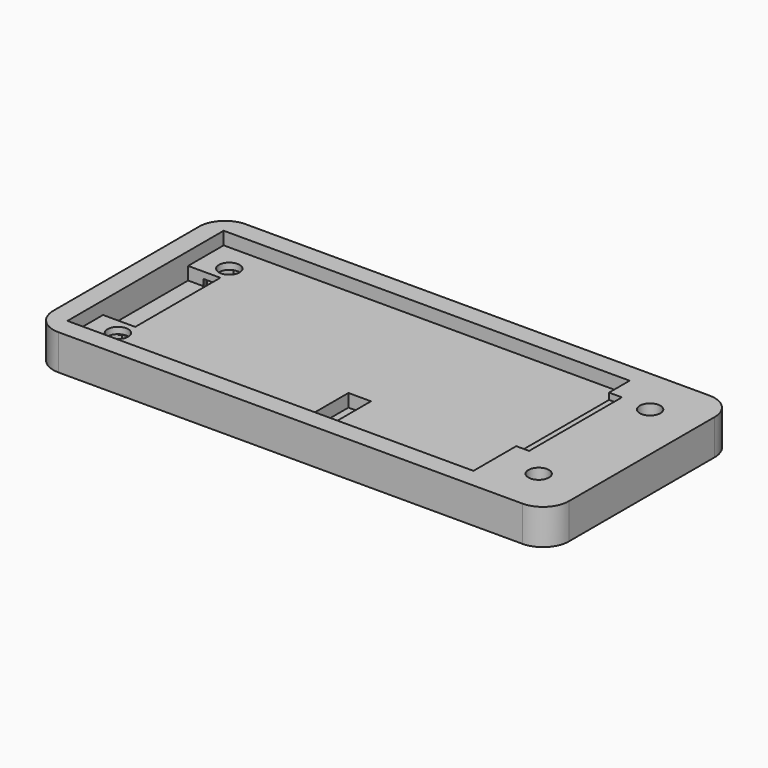
from build123d import *

# Parameters (mm, degrees)
F0_W      = 80
F0_H      = 36.3
F1_DEPTH  = 5.5
F2_R      = 4
F3_W      = 63
F3_H      = 30.3
F4_DEPTH  = 2
F5_W      = 5
F5_H      = 16.5
F5_W_2    = 3.5
F5_H_2    = 6.5
F6_DEPTH  = 4
F7_W      = 2
F7_H      = 18
F8_DEPTH  = 1
F9_R      = 1.6
F10_DEPTH = 5.501
F12_DEPTH = 2.5


with BuildPart() as f1:
    # F0 (on Top) → F1 (new body)
    with BuildSketch(Plane.XY):
        with Locations((37, 15.15)):
            Rectangle(F0_W, F0_H)
    extrude(amount=F1_DEPTH)

    # F2
    f2_edges = [f1.edges().sort_by_distance(p)[0] for p in [
        (-3, -3, 2.75),
        (77, -3, 2.75),
        (77, 33.3, 2.75),
        (-3, 33.3, 2.75),
    ]]
    fillet(f2_edges, radius=F2_R)

    # F3 (on face) → F4 (cut)
    with BuildSketch(Plane.XY.offset(5.5)):
        with Locations((31.5, 15.15)):
            Rectangle(F3_W, F3_H)
    extrude(amount=-F4_DEPTH, mode=Mode.SUBTRACT)

    # F5 (on face) → F6 (cut)
    with BuildSketch(Plane.XY.offset(5.5)):
        with Locations((2.5, 15.15)):
            Rectangle(F5_W, F5_H)
        with Locations((37.75, 6.25)):
            Rectangle(F5_W_2, F5_H_2)
    extrude(amount=-F6_DEPTH, mode=Mode.SUBTRACT)

    # F7 (on face) → F8 (cut)
    with BuildSketch(Plane.XY.offset(5.5)):
        with Locations((64, 17.3)):
            Rectangle(F7_W, F7_H)
    extrude(amount=-F8_DEPTH, mode=Mode.SUBTRACT)

    # F9 (on face) → F10 (cut, through all)
    with BuildSketch(Plane.XY.offset(5.5)):
        with Locations((4.35, 4.35)):
            Circle(F9_R)
        with Locations((4.35, 25.95)):
            Circle(F9_R)
        with Locations((69.65, 25.95)):
            Circle(F9_R)
        with Locations((69.65, 4.35)):
            Circle(F9_R)
    extrude(amount=-F10_DEPTH, mode=Mode.SUBTRACT)

    # F11 (on face) → F12 (cut)
    with BuildSketch(Plane(origin=(0, 0, 0), x_dir=(1, 0, 0), z_dir=(0, 0, -1))):
        Polygon((67.917949, -28.95), (71.382051, -28.95), (73.114102, -25.95), (71.382051, -22.95), (67.917949, -22.95), (66.185898, -25.95), align=None)
        Polygon((73.114102, -4.35), (71.382051, -1.35), (67.917949, -1.35), (66.185898, -4.35), (67.917949, -7.35), (71.382051, -7.35), align=None)
        Polygon((7.814102, -25.95), (6.082051, -22.95), (2.617949, -22.95), (0.885898, -25.95), (2.617949, -28.95), (6.082051, -28.95), align=None)
        Polygon((7.814102, -4.35), (6.082051, -1.35), (2.617949, -1.35), (0.885898, -4.35), (2.617949, -7.35), (6.082051, -7.35), align=None)
    extrude(amount=-F12_DEPTH, mode=Mode.SUBTRACT)


solid = f1.part
